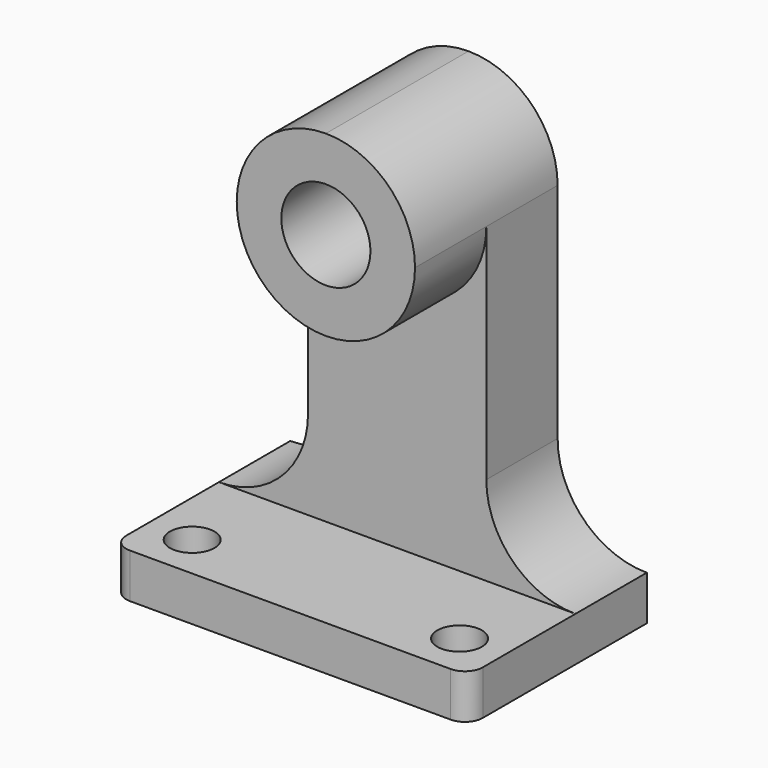
from build123d import *

# Parameters (mm, degrees)
F0_W      = 101.6
F0_H      = 63.5
F1_DEPTH  = 12.7
F2_R      = 5.08
F3_W      = 101.6
F3_H      = 25.4
F4_DEPTH  = 63.5
F5_W      = 25.4
F5_H      = 25.4
F6_DEPTH  = 38.1
F8_DEPTH  = 25.4
F9_W      = 50.8
F9_H      = 25.4
F10_DEPTH = 50.8
F12_DEPTH = 25.4
F14_DEPTH = 50.8
F15_R     = 12.7
F16_DEPTH = 25.4
F17_R     = 6.35
F18_DEPTH = 25.4


with BuildPart() as f1:
    # F0 (on Top) → F1 (new body)
    with BuildSketch(Plane.XY):
        with Locations((8.665344, 7.042157)):
            Rectangle(F0_W, F0_H)
    extrude(amount=F1_DEPTH)

    # F2
    f2_edges = [f1.edges().sort_by_distance(p)[0] for p in [
        (59.465344, -24.707843, 6.35),
        (-42.134656, -24.707843, 6.35),
    ]]
    fillet(f2_edges, radius=F2_R)

    # F3 (on face) → F4 (join)
    with BuildSketch(Plane.XY.offset(12.7)):
        with Locations((8.665344, 26.092157)):
            Rectangle(F3_W, F3_H)
    extrude(amount=F4_DEPTH)

    # F5 (on face) → F6 (cut)
    with BuildSketch(Plane.XY.offset(76.2)):
        with Locations((-29.434656, 26.092157)):
            Rectangle(F5_W, F5_H)
        with Locations((46.765344, 26.092157)):
            Rectangle(F5_W, F5_H)
    extrude(amount=-F6_DEPTH, mode=Mode.SUBTRACT)

    # F7 (on face) → F8 (cut)
    with BuildSketch(Plane.XZ.offset(-13.392157)):
        with BuildLine():
            Line((-42.134656, 38.1), (-42.134656, 12.7))
            ThreePointArc((-42.134656, 12.7), (-24.174144, 20.139488), (-16.734656, 38.1))
            Line((-16.734656, 38.1), (-42.134656, 38.1))
        make_face()
        with BuildLine():
            Line((59.465344, 38.1), (34.065344, 38.1))
            ThreePointArc((34.065344, 38.1), (41.504832, 20.139488), (59.465344, 12.7))
            Line((59.465344, 12.7), (59.465344, 38.1))
        make_face()
    extrude(amount=-F8_DEPTH, mode=Mode.SUBTRACT)

    # F9 (on face) → F10 (join)
    with BuildSketch(Plane.XY.offset(76.2)):
        with Locations((8.665344, 0.692157)):
            Rectangle(F9_W, F9_H)
        with Locations((8.665344, 26.092157)):
            Rectangle(F9_W, F9_H)
    extrude(amount=F10_DEPTH)

    # F11 (on face) → F12 (cut)
    with BuildSketch(Plane.XZ.offset(12.007843)):
        with BuildLine():
            Line((-16.734656, 76.2), (8.665344, 76.2))
            ThreePointArc((8.665344, 76.2), (-9.295168, 83.639488), (-16.734656, 101.6))
            Line((-16.734656, 101.6), (-16.734656, 76.2))
        make_face()
        with BuildLine():
            Line((34.065344, 76.2), (34.065344, 101.6))
            ThreePointArc((34.065344, 101.6), (26.625856, 83.639488), (8.665344, 76.2))
            Line((8.665344, 76.2), (34.065344, 76.2))
        make_face()
    extrude(amount=-F12_DEPTH, mode=Mode.SUBTRACT)

    # F13 (on face) → F14 (cut)
    with BuildSketch(Plane.XZ.offset(12.007843)):
        with BuildLine():
            ThreePointArc((-16.734656, 101.6), (-9.295168, 119.560512), (8.665344, 127))
            Line((8.665344, 127), (-16.734656, 127))
            Line((-16.734656, 127), (-16.734656, 101.6))
        make_face()
        with BuildLine():
            ThreePointArc((8.665344, 127), (26.625856, 119.560512), (34.065344, 101.6))
            Line((34.065344, 101.6), (34.065344, 127))
            Line((34.065344, 127), (8.665344, 127))
        make_face()
    extrude(amount=-F14_DEPTH, mode=Mode.SUBTRACT)

    # F15 (on face) → F16 (cut)
    with BuildSketch(Plane.XZ.offset(12.007843)):
        with Locations((8.665344, 101.6)):
            Circle(F15_R)
    extrude(amount=-F16_DEPTH, mode=Mode.SUBTRACT)

    # F17 (on face) → F18 (cut)
    with BuildSketch(Plane.XY.offset(12.7)):
        with Locations((-29.434656, -12.007843)):
            Circle(F17_R)
        with Locations((46.765344, -12.007843)):
            Circle(F17_R)
    extrude(amount=-F18_DEPTH, mode=Mode.SUBTRACT)


solid = f1.part
